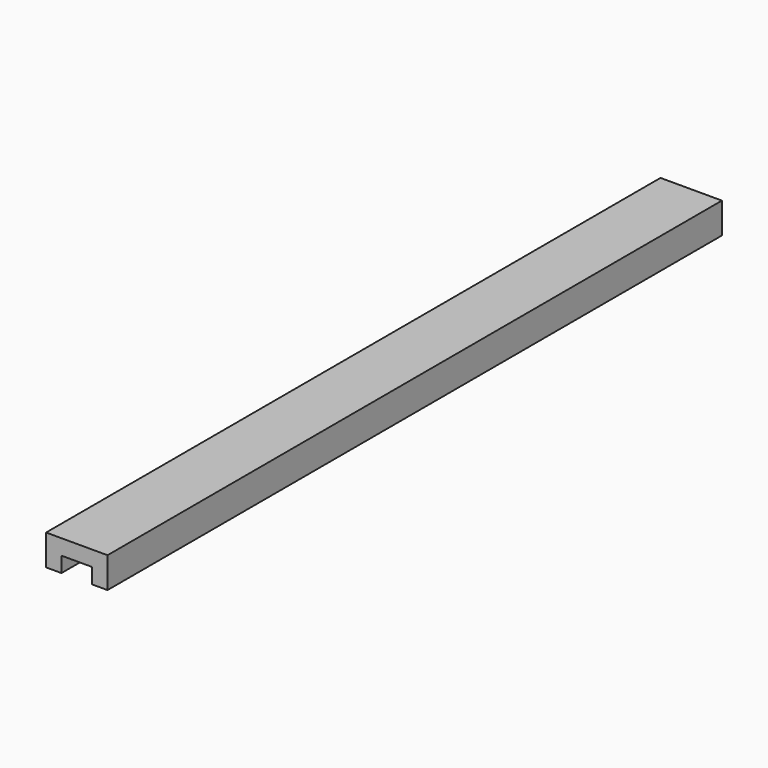
from build123d import *

# Parameters (mm, degrees)
F0_W     = 8
F0_H     = 100
F2_DEPTH = 4
F1_W     = 4
F1_H     = 150
F3_DEPTH = 2


with BuildPart() as f2:
    # F0 (on Top) → F2 (new body)
    with BuildSketch(Plane.XY):
        Rectangle(F0_W, F0_H)
    extrude(amount=F2_DEPTH)

    # F1 (on Top) → F3 (cut)
    with BuildSketch(Plane.XY):
        Rectangle(F1_W, F1_H)
    extrude(amount=F3_DEPTH, mode=Mode.SUBTRACT)


solid = f2.part
